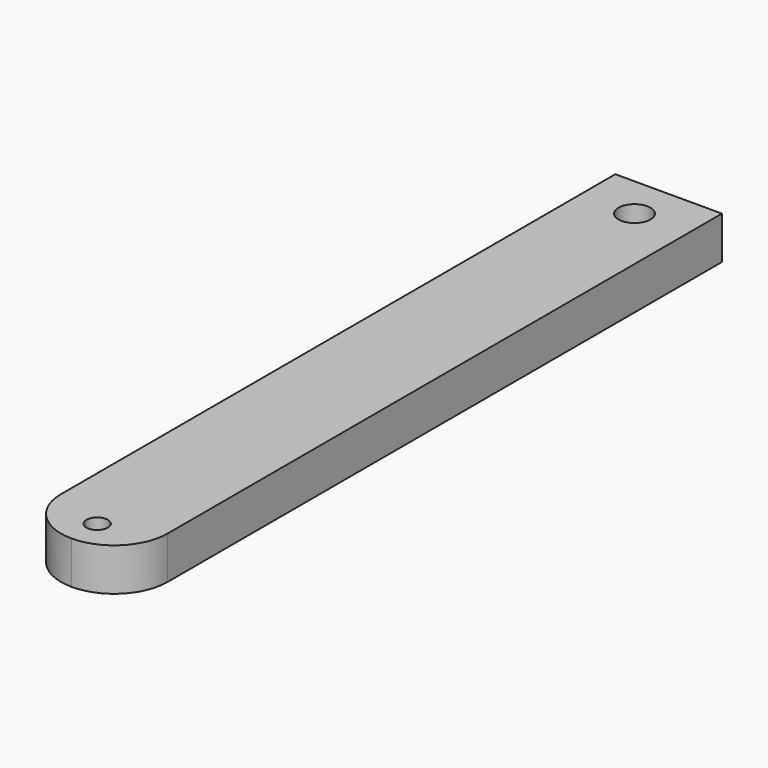
from build123d import *

# Parameters (mm, degrees)
F0_R     = 1
F0_R_2   = 1.5
F1_DEPTH = 4


with BuildPart() as f1:
    # F0 (on Top) → F1 (new body)
    with BuildSketch(Plane.XY):
        with BuildLine():
            Line((-313.116266, 44.459332), (-323.116266, 44.459332))
            Line((-323.116266, 44.459332), (-323.116266, -20.540668))
            ThreePointArc((-323.116266, -20.540668), (-321.6518, -24.076202), (-318.116266, -25.540668))
            ThreePointArc((-318.116266, -25.540668), (-314.580732, -24.076202), (-313.116266, -20.540668))
            Line((-313.116266, -20.540668), (-313.116266, 36.459332))
            Line((-313.116266, 36.459332), (-313.116266, 44.459332))
        make_face()
        with Locations((-318.116266, -22.540668)):
            Circle(F0_R, mode=Mode.SUBTRACT)
        with Locations((-318.116266, 40.459332)):
            Circle(F0_R_2, mode=Mode.SUBTRACT)
    extrude(amount=F1_DEPTH)


solid = f1.part
